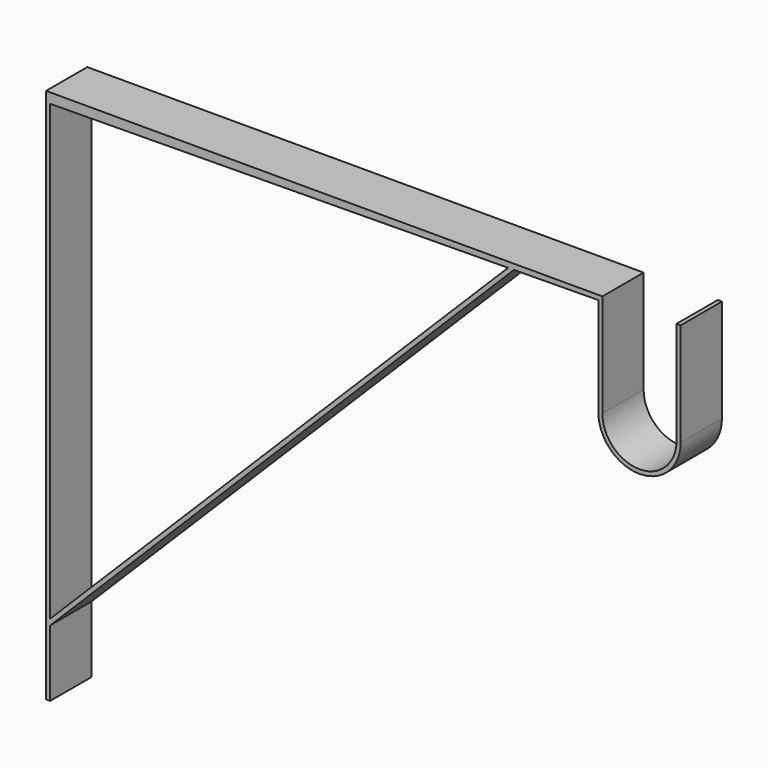
from build123d import *

# Parameters (mm, degrees)
F1_DEPTH = 25


with BuildPart() as f1:
    # F0 (on Front) → F1 (new body)
    with BuildSketch(Plane.XZ):
        with BuildLine():
            Line((0, 260), (0, 0))
            Line((0, 0), (2, 0))
            Line((2, 0), (2, 32.289786))
            Line((2, 32.289786), (227.065674, 257.35546))
            Line((227.065674, 257.35546), (268, 257.760407))
            Line((268, 257.760407), (268, 210))
            ThreePointArc((268, 210), (288, 190), (308, 210))
            Line((308, 210), (308, 260))
            Line((308, 260), (306, 260))
            Line((306, 260), (306, 210))
            ThreePointArc((306, 210), (288, 192), (270, 210))
            Line((270, 210), (270, 260))
            Line((270, 260), (0, 260))
        make_face()
        Polygon((2, 35.118214), (2, 255.128978), (224.208987, 257.3272), align=None, mode=Mode.SUBTRACT)
    extrude(amount=F1_DEPTH)


solid = f1.part
